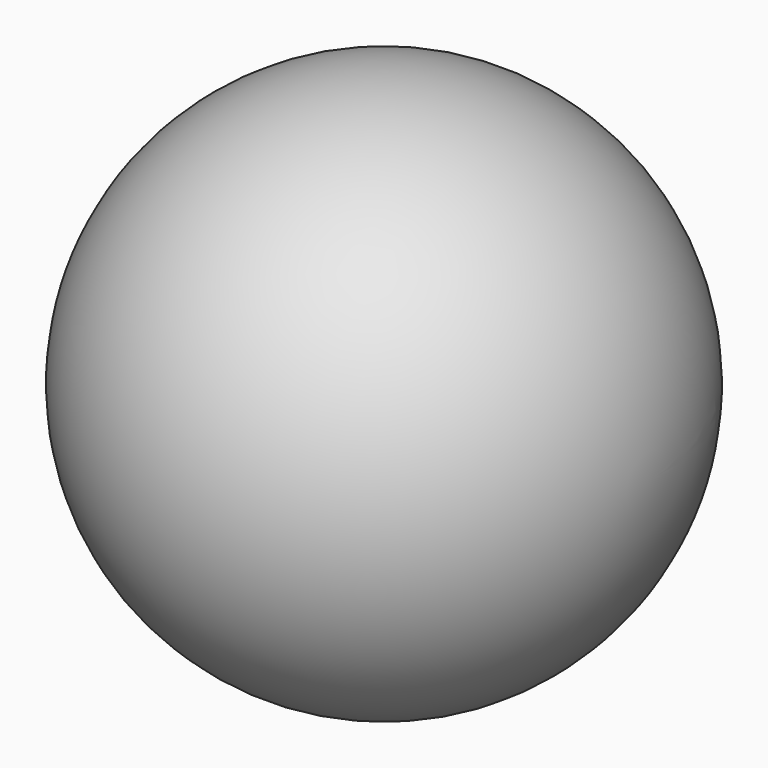
from build123d import *


with BuildPart() as f1:
    # F0 (on Top) → F1 (revolve)
    with BuildSketch(Plane.XY):
        with BuildLine():
            Line((0, 0), (35.375833, 0))
            ThreePointArc((35.375833, 0), (0, 35.375833), (-35.375833, 0))
            Line((-35.375833, 0), (0, 0))
        make_face()
    revolve(axis=Axis((0, 0, 0), (-1, 0, 0)))


solid = f1.part
